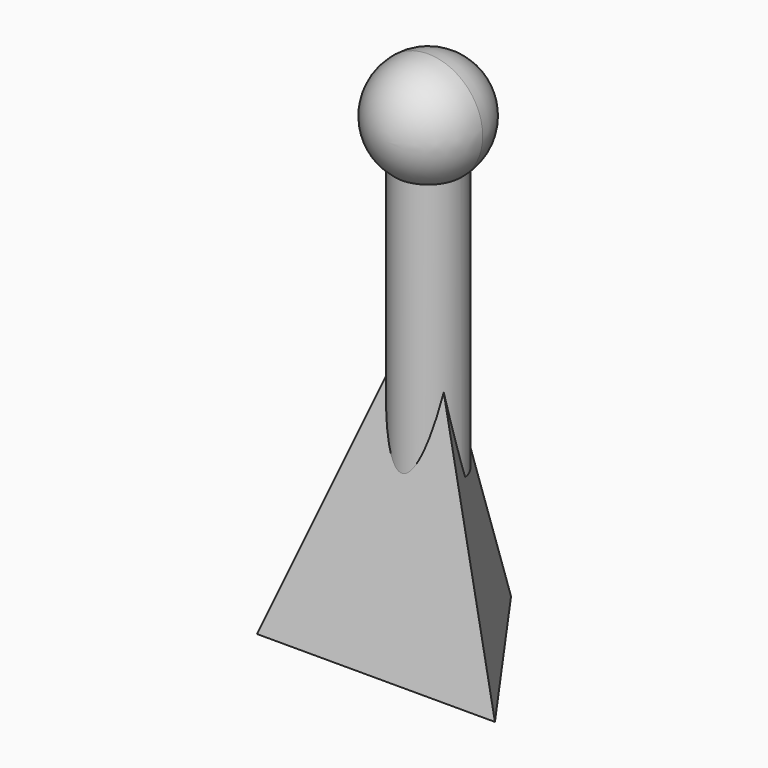
from build123d import *

# Parameters (mm, degrees)
F2_R          = 5.4088164631
F4_DEPTH      = 25.4
F4_DEPTH_BACK = 25.4


with BuildPart() as f3:
    # F0 (on Top) → F3 section 0
    with BuildSketch(Plane.XY, mode=Mode.PRIVATE) as f3_s0:
        Polygon((20.1203916222, 0), (0, 28.4514948726), (-18.8628677279, 0), align=None)
    loft([f3_s0.sketch, Vertex(0, 11.4749111235, 50.8)])

    # F2 (on offset) → F4 (join, two sides)
    with BuildSketch(Plane.XY.offset(50.8)) as f4_sk:
        with Locations((0, 11.4749111235)):
            Circle(F2_R)
    extrude(amount=F4_DEPTH)
    extrude(f4_sk.sketch, amount=-F4_DEPTH_BACK)

    # F5 (on face) → F6 (revolve)
    with BuildSketch(Plane.XY.offset(76.2)):
        with BuildLine():
            ThreePointArc((0, 2.5385186467), (6.3189837197, 5.1559274038), (8.9363924768, 11.4749111235))
            ThreePointArc((8.9363924768, 11.4749111235), (6.3189837197, 17.7938948432), (0, 20.4113036003))
            Line((0, 20.4113036003), (0, 16.8837275866))
            ThreePointArc((0, 16.8837275866), (3.8246107992, 15.2995219227), (5.4088164631, 11.4749111235))
            ThreePointArc((5.4088164631, 11.4749111235), (3.8246107992, 7.6503003243), (0, 6.0660946605))
            Line((0, 6.0660946605), (0, 2.5385186467))
        make_face()
    revolve(axis=Axis((0, 11.4749111235, 76.2), (0, -1, 0)))


solid = f3.part
